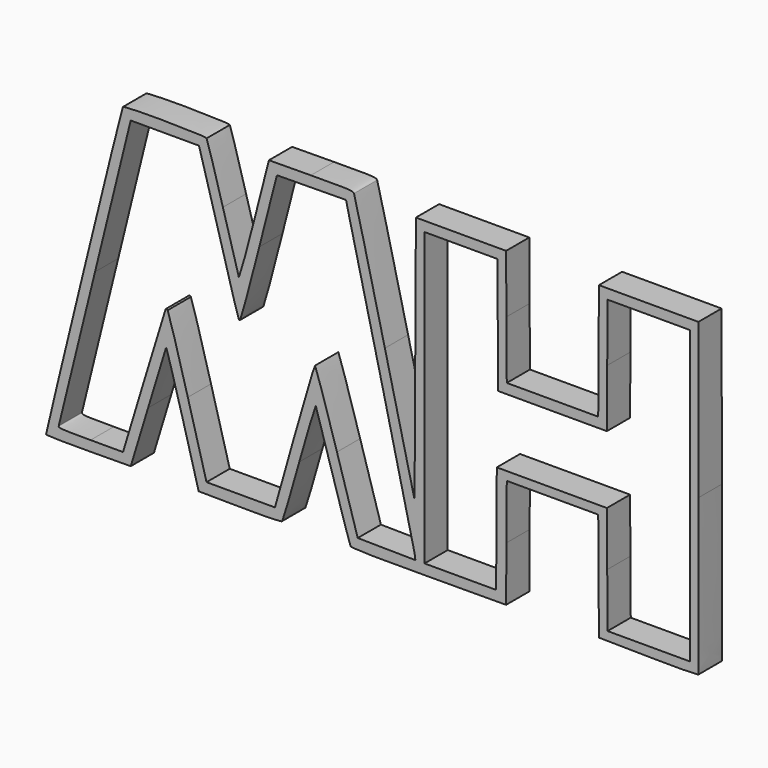
from build123d import *

# Parameters (mm, degrees)
F1_DEPTH = 5.08


with BuildPart() as f1:
    # F0 (on Front) → F1 (new body)
    with BuildSketch(Plane.XZ):
        with BuildLine():
            add(Edge.make_bspline(
                [(-88.697367137, -151.6268995181), (-88.8096869402, -151.4451622066), (-75.5090993087, -97.1505766968), (-75.2492718061, -96.7301671852)],
                knots=[0, 0, 0, 0, 1, 1, 1, 1], degree=3))
            add(Edge.make_bspline(
                [(-81.2252771404, -151.7485828201), (-85.2727205926, -151.7823095151), (-88.6351599598, -151.727558088), (-88.697367137, -151.6268995181)],
                knots=[0, 0, 0, 0, 1, 1, 1, 1], degree=3))
            Line((-81.2252771404, -151.7485828201), (-73.8662922876, -151.6872587675))
            Line((-73.8662922876, -151.6872587675), (-70.8277989917, -141.6973681422))
            add(Edge.make_bspline(
                [(-67.6823091824, -131.3943521191), (-67.7411591055, -131.5665717782), (-69.1566280625, -136.202929372), (-70.8277989917, -141.6973681422)],
                knots=[0, 0, 0, 0, 1, 1, 1, 1], degree=3))
            add(Edge.make_bspline(
                [(-64.7710364528, -141.3842427444), (-66.3133869912, -135.7175812475), (-67.6234592594, -131.2221309262), (-67.6823091824, -131.3943521191)],
                knots=[0, 0, 0, 0, 1, 1, 1, 1], degree=3))
            Line((-64.7710364528, -141.3842427444), (-61.9667602367, -151.6872587675))
            Line((-61.9667602367, -151.6872587675), (-54.7617960796, -151.7486058281))
            add(Edge.make_bspline(
                [(-47.327106009, -151.5162830756), (-47.50533383, -151.7441177296), (-49.1720212624, -151.796198692), (-54.7617960796, -151.7486058281)],
                knots=[0, 0, 0, 0, 1, 1, 1, 1], degree=3))
            add(Edge.make_bspline(
                [(-44.3397073984, -141.4129659612), (-45.8564269984, -146.8082708266), (-47.2007536122, -151.3547652154), (-47.327106009, -151.5162830756)],
                knots=[0, 0, 0, 0, 1, 1, 1, 1], degree=3))
            add(Edge.make_bspline(
                [(-41.434975083, -131.8877223747), (-41.5158590234, -131.7313015586), (-42.8229893322, -136.0176626297), (-44.3397073984, -141.4129659612)],
                knots=[0, 0, 0, 0, 1, 1, 1, 1], degree=3))
            add(Edge.make_bspline(
                [(-38.4365004097, -141.6973681422), (-40.0047779231, -136.4584856268), (-41.3540942103, -132.0441447246), (-41.434975083, -131.8877223747)],
                knots=[0, 0, 0, 0, 1, 1, 1, 1], degree=3))
            add(Edge.make_bspline(
                [(-35.35325344, -151.5148749846), (-35.4807623735, -151.3541301939), (-36.8682228963, -146.9362537254), (-38.4365004097, -141.6973681422)],
                knots=[0, 0, 0, 0, 1, 1, 1, 1], degree=3))
            add(Edge.make_bspline(
                [(-21.618593749, -151.747197737), (-32.2466686649, -151.7943779904), (-35.1707783378, -151.744881596), (-35.35325344, -151.5148749846)],
                knots=[0, 0, 0, 0, 1, 1, 1, 1], degree=3))
            Line((-21.618593749, -151.747197737), (-8.1157690404, -151.6872587675))
            Line((-8.1157690404, -151.6872587675), (-8.0551122205, -142.1039337259))
            Line((-8.0551122205, -142.1039337259), (-7.994452333, -132.5206102182))
            Line((-7.994452333, -132.5206102182), (0.0155073543, -132.5206102182))
            Line((0.0155073543, -132.5206102182), (8.0254655077, -132.5206102182))
            Line((8.0254655077, -132.5206102182), (8.0861545387, -141.9877738836))
            Line((8.0861545387, -141.9877738836), (8.1468328327, -151.4549360151))
            Line((8.1468328327, -151.4549360151), (16.8305932312, -151.5710973913))
            add(Edge.make_bspline(
                [(25.602503504, -151.4549360151), (25.5448131854, -151.6069745696), (22.5134799865, -151.6471159016), (16.8305932312, -151.5710973913)],
                knots=[0, 0, 0, 0, 1, 1, 1, 1], degree=3))
            add(Edge.make_bspline(
                [(25.6308616602, -124.1569819276), (25.6637462615, -139.0430796988), (25.6509768084, -151.3271586547), (25.602503504, -151.4549360151)],
                knots=[0, 0, 0, 0, 1, 1, 1, 1], degree=3))
            Line((25.6308616602, -124.1569819276), (25.5710607389, -97.0913505925))
            Line((25.5710607389, -97.0913505925), (16.8589513874, -97.0913505925))
            Line((16.8589513874, -97.0913505925), (8.1468328327, -97.0913505925))
            Line((8.1468328327, -97.0913505925), (8.0863155949, -107.25548194))
            Line((8.0863155949, -107.25548194), (8.0257891539, -117.4196144379))
            Line((8.0257891539, -117.4196144379), (0.0155349639, -117.4196144379))
            Line((0.0155349639, -117.4196144379), (-7.9947238277, -117.4196144379))
            Line((-7.9947238277, -117.4196144379), (-8.055247201, -107.25548194))
            Line((-8.055247201, -107.25548194), (-8.1157690404, -97.0913505925))
            Line((-8.1157690404, -97.0913505925), (-16.0147518261, -97.0913505925))
            Line((-16.0147518261, -97.0913505925), (-23.9137330779, -97.0913505925))
            Line((-23.9137330779, -97.0913505925), (-24.029895988, -118.8869035998))
            Line((-24.029895988, -118.8869035998), (-24.1460573642, -140.682456607))
            Line((-24.1460573642, -140.682456607), (-29.34602871, -119.003064976))
            add(Edge.make_bspline(
                [(-34.7574514629, -96.9138580697), (-34.6411535724, -97.1392555987), (-32.206013487, -107.0794001925), (-29.34602871, -119.003064976)],
                knots=[0, 0, 0, 0, 1, 1, 1, 1], degree=3))
            add(Edge.make_bspline(
                [(-42.3147712321, -96.5653737493), (-35.4953141815, -96.5084380938), (-34.9537513196, -96.5334106193), (-34.7574514629, -96.9138580697)],
                knots=[0, 0, 0, 0, 1, 1, 1, 1], degree=3))
            Line((-42.3147712321, -96.5653737493), (-49.6606411279, -96.6267045125))
            Line((-49.6606411279, -96.6267045125), (-52.2309748268, -106.6762014496))
            add(Edge.make_bspline(
                [(-54.9470536187, -116.3176067958), (-54.8637032182, -116.5509909851), (-53.7009344533, -112.4234481661), (-52.2309748268, -106.6762014496)],
                knots=[0, 0, 0, 0, 1, 1, 1, 1], degree=3))
            add(Edge.make_bspline(
                [(-57.7247095515, -106.5004324194), (-56.2771582062, -111.6754283637), (-55.0272151072, -116.0931558553), (-54.9470536187, -116.3176067958)],
                knots=[0, 0, 0, 0, 1, 1, 1, 1], degree=3))
            add(Edge.make_bspline(
                [(-60.5752196243, -96.8009467685), (-60.4549888956, -96.9606688526), (-59.172257829, -101.3254374338), (-57.7247095515, -106.5004324194)],
                knots=[0, 0, 0, 0, 1, 1, 1, 1], degree=3))
            add(Edge.make_bspline(
                [(-75.2492718061, -96.7301671852), (-75.0293705104, -96.3743622869), (-60.8448337816, -96.4427814387), (-60.5752196243, -96.8009467685)],
                knots=[0, 0, 0, 0, 1, 1, 1, 1], degree=3))
        make_face()
        with BuildLine():
            add(Edge.make_bspline(
                [(-71.5440418374, -137.8059582044), (-69.5220890449, -131.1295757823), (-67.8197054306, -125.5795634317), (-67.7609690139, -125.4725960617)],
                knots=[0, 0, 0, 0, 1, 1, 1, 1], degree=3))
            Line((-71.5440418374, -137.8059582044), (-75.2203236858, -149.9448365905))
            Line((-75.2203236858, -149.9448365905), (-80.8996503329, -149.9448365905))
            add(Edge.make_bspline(
                [(-86.4738924333, -149.5382710068), (-86.5718489025, -149.9172545717), (-86.1936823142, -149.9448365905), (-80.8996503329, -149.9448365905)],
                knots=[0, 0, 0, 0, 1, 1, 1, 1], degree=3))
            add(Edge.make_bspline(
                [(-80.122365283, -123.7504163439), (-83.5579088109, -137.7101251841), (-86.4160974282, -149.3146590921), (-86.4738924333, -149.5382710068)],
                knots=[0, 0, 0, 0, 1, 1, 1, 1], degree=3))
            Line((-80.122365283, -123.7504163439), (-73.8759219124, -98.369127073))
            Line((-73.8759219124, -98.369127073), (-67.9052507966, -98.369127073))
            Line((-67.9052507966, -98.369127073), (-61.9345796809, -98.369127073))
            Line((-61.9345796809, -98.369127073), (-61.695405139, -99.1241769771))
            add(Edge.make_bspline(
                [(-58.3028858485, -111.1468934117), (-60.0372260738, -104.9496764748), (-61.563862132, -99.5394543572), (-61.695405139, -99.1241769771)],
                knots=[0, 0, 0, 0, 1, 1, 1, 1], degree=3))
            add(Edge.make_bspline(
                [(-54.6758104934, -122.835249193), (-54.9802894759, -123.1397297094), (-54.6369790849, -124.2460643938), (-58.3028858485, -111.1468934117)],
                knots=[0, 0, 0, 0, 1, 1, 1, 1], degree=3))
            add(Edge.make_bspline(
                [(-51.3516940574, -110.5413640257), (-53.0491616239, -117.1722030235), (-54.5450114125, -122.704451646), (-54.6758104934, -122.835249193)],
                knots=[0, 0, 0, 0, 1, 1, 1, 1], degree=3))
            Line((-51.3516940574, -110.5413640257), (-48.2653946899, -98.485288641))
            Line((-48.2653946899, -98.485288641), (-42.2075339013, -98.4233886209))
            Line((-42.2075339013, -98.4233886209), (-36.1496731128, -98.3614884092))
            Line((-36.1496731128, -98.3614884092), (-35.7901129215, -99.9334880456))
            add(Edge.make_bspline(
                [(-29.8753911839, -124.6216274325), (-32.9307309547, -111.9077511161), (-35.59235589, -100.7980896958), (-35.7901129215, -99.9334880456)],
                knots=[0, 0, 0, 0, 1, 1, 1, 1], degree=3))
            add(Edge.make_bspline(
                [(-24.1601398086, -148.8458736769), (-24.2481884476, -148.2364156708), (-26.8200498792, -137.3355039405), (-29.8753911839, -124.6216274325)],
                knots=[0, 0, 0, 0, 1, 1, 1, 1], degree=3))
            Line((-24.1601398086, -148.8458736769), (-24.0000530474, -149.9539799791))
            Line((-24.0000530474, -149.9539799791), (-29.0522760681, -149.8913275967))
            Line((-29.0522760681, -149.8913275967), (-34.1044990889, -149.8286752143))
            Line((-34.1044990889, -149.8286752143), (-37.7415461214, -137.7478782833))
            add(Edge.make_bspline(
                [(-41.580826013, -125.6670813523), (-41.4695990909, -125.6670813523), (-39.7419219893, -131.1034402013), (-37.7415461214, -137.7478782833)],
                knots=[0, 0, 0, 0, 1, 1, 1, 1], degree=3))
            add(Edge.make_bspline(
                [(-45.1935198194, -137.7478782833), (-43.3177646111, -131.1034402013), (-41.6920514012, -125.6670813523), (-41.580826013, -125.6670813523)],
                knots=[0, 0, 0, 0, 1, 1, 1, 1], degree=3))
            Line((-45.1935198194, -137.7478782833), (-48.6039853683, -149.8286752143))
            Line((-48.6039853683, -149.8286752143), (-54.5967411191, -149.8286752143))
            Line((-54.5967411191, -149.8286752143), (-60.5894953361, -149.8286752143))
            Line((-60.5894953361, -149.8286752143), (-63.8667827745, -137.8084476726))
            add(Edge.make_bspline(
                [(-67.3991233589, -125.5331654511), (-67.2588434384, -125.6734453716), (-65.6692896386, -131.1973221412), (-63.8667827745, -137.8084476726)],
                knots=[0, 0, 0, 0, 1, 1, 1, 1], degree=3))
            add(Edge.make_bspline(
                [(-67.7609690139, -125.4725960617), (-67.7022341309, -125.3656286918), (-67.5394048133, -125.3928855306), (-67.3991233589, -125.5331654511)],
                knots=[0, 0, 0, 0, 1, 1, 1, 1], degree=3))
        make_face(mode=Mode.SUBTRACT)
        Polygon((-9.7420298412, -131.0105107935), (-9.8027173384, -140.4776729251), (-9.8634033017, -149.9448365905), (-16.1335192445, -149.9448365905), (-22.4036336533, -149.9448365905), (-22.4036336533, -124.38930468), (-22.4036336533, -98.8337731531), (-16.0171937443, -98.8337731531), (-9.6307523015, -98.8337731531), (-9.5702289282, -108.9979050758), (-9.5097070888, -119.162036615), (0.0155349639, -119.162036615), (9.5407739489, -119.162036615), (9.6013003899, -108.9979050758), (9.6618176277, -98.8337731531), (16.8613963734, -98.8337731531), (24.0609674497, -98.8337731531), (24.0609674497, -124.38930468), (24.0609674497, -149.9448365905), (16.8615589634, -149.9448365905), (9.662152011, -149.9448365905), (9.6014629799, -140.4776729251), (9.5407739489, -131.0105107935), (-0.1006279462, -131.0105107935), align=None, mode=Mode.SUBTRACT)
    extrude(amount=F1_DEPTH)


solid = f1.part
